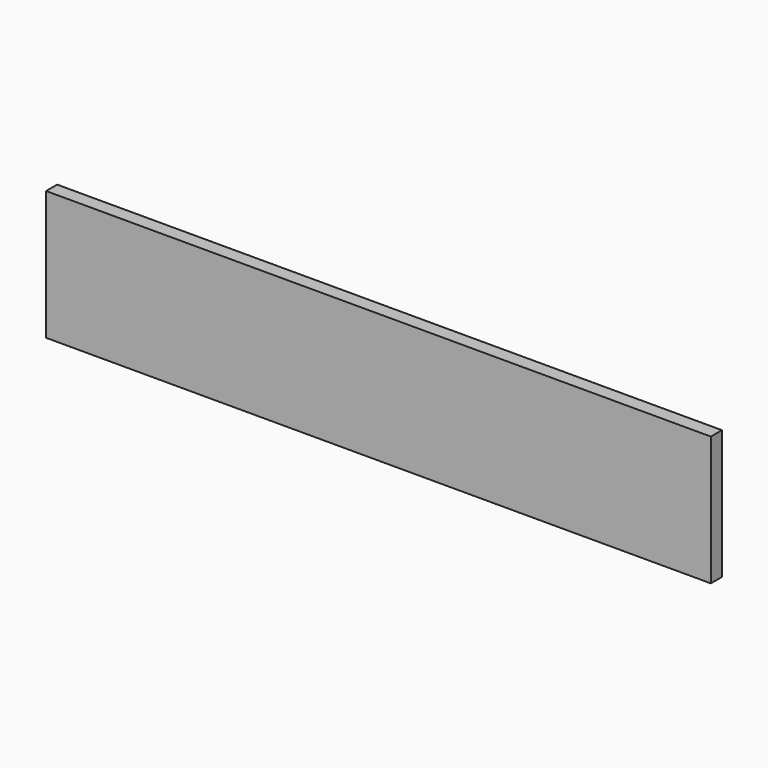
from build123d import *

# Parameters (mm, degrees)
BOX_W     = 72
BOX_H     = 1.5
BOX_DEPTH = 14


with BuildPart() as part:
    # Box → Box (new body)
    with BuildSketch(Plane.XY):
        with Locations((36, 0.75)):
            Rectangle(BOX_W, BOX_H)
    extrude(amount=BOX_DEPTH)


solid = part.part
